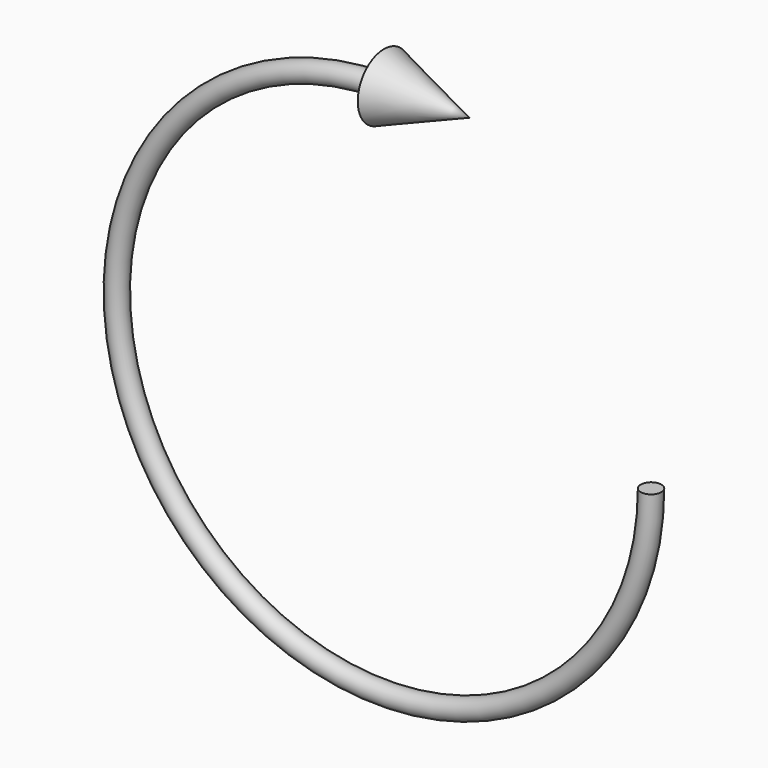
from build123d import *

# Parameters (mm, degrees)
F0_R     = 1.9099686796
F1_ANGLE = 270


with BuildPart() as f1:
    # F0 (on Right) → F1 (revolve)
    with BuildSketch(Plane.YZ):
        with Locations((0, 49.4390502572)):
            Circle(F0_R)
    revolve(axis=Axis((0, 1.7623687163, 0), (0, -1, 0)), revolution_arc=F1_ANGLE)

    # F2 (on Front) → F3 (revolve)
    with BuildSketch(Plane.XZ):
        Polygon((0, 55.498752743), (0, 49.4390502572), (15.7986525446, 49.4390502572), align=None)
    revolve(axis=Axis((7.8993262723, 0, 49.4390502572), (1, 0, 0)))


solid = f1.part
